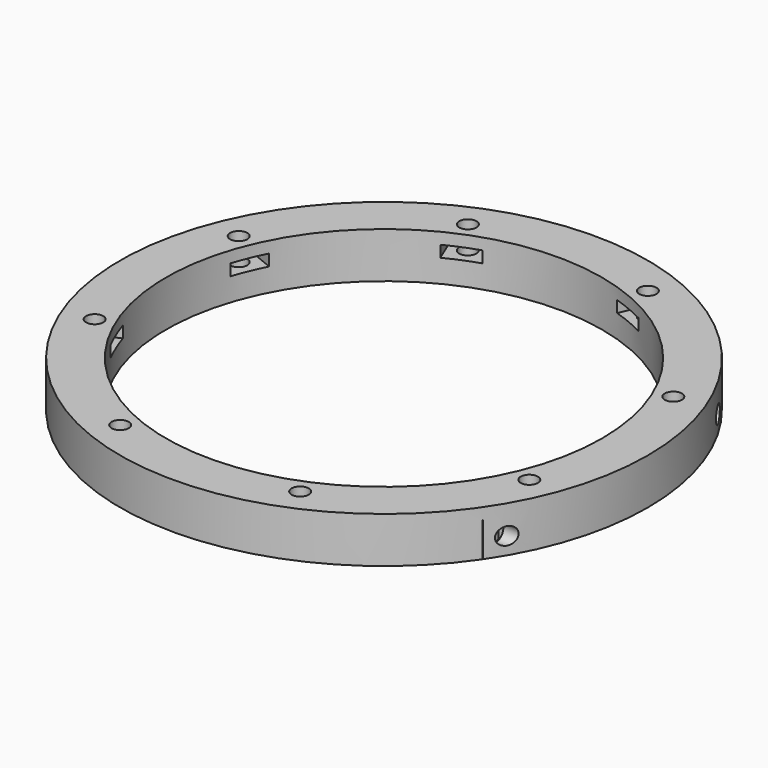
from build123d import *

# Parameters (mm, degrees)
CYLINDER1274_R               = 1.5
CYLINDER1274_DEPTH           = 60
CYLINDER1276_R               = 1.5
CYLINDER1276_DEPTH           = 60
CYLINDER1273_R               = 1.5
CYLINDER1273_DEPTH           = 60
CYLINDER1275_R               = 1.5
CYLINDER1275_DEPTH           = 60
BOX543_W                     = 2
BOX543_H                     = 6
BOX543_DEPTH                 = 6
BOX542_W                     = 2
BOX542_H                     = 6
BOX542_DEPTH                 = 6
BOX541_W                     = 2
BOX541_H                     = 6
BOX541_DEPTH                 = 6
BOX540_W                     = 2
BOX540_H                     = 6
BOX540_DEPTH                 = 6
BOX533_W                     = 8
BOX533_H                     = 6
BOX533_DEPTH                 = 2
BOX539_W                     = 8
BOX539_H                     = 6
BOX539_DEPTH                 = 2
BOX539_PLACEMENT_ANGLE       = 135
BOX534_W                     = 8
BOX534_H                     = 6
BOX534_DEPTH                 = 2
BOX536_W                     = 8
BOX536_H                     = 6
BOX536_DEPTH                 = 2
BOX536_PLACEMENT_ANGLE       = 225
BOX537_W                     = 8
BOX537_H                     = 6
BOX537_DEPTH                 = 2
BOX538_W                     = 8
BOX538_H                     = 6
BOX538_DEPTH                 = 2
BOX538_PLACEMENT_ANGLE       = 45
BOX532_W                     = 8
BOX532_H                     = 6
BOX532_DEPTH                 = 2
BOX535_W                     = 8
BOX535_H                     = 6
BOX535_DEPTH                 = 2
BOX535_PLACEMENT_ANGLE       = 45
COMPOUND921_PLACEMENT_ANGLE  = 22.5
CYLINDER1272_R               = 1.5
CYLINDER1272_DEPTH           = 60
CYLINDER1271_R               = 1.5
CYLINDER1271_DEPTH           = 60
CYLINDER1271_PLACEMENT_ANGLE = 135
CYLINDER1266_R               = 1.5
CYLINDER1266_DEPTH           = 60
CYLINDER1267_R               = 1.5
CYLINDER1267_DEPTH           = 60
CYLINDER1267_PLACEMENT_ANGLE = 225
CYLINDER1270_R               = 1.5
CYLINDER1270_DEPTH           = 60
CYLINDER1268_R               = 1.5
CYLINDER1268_DEPTH           = 60
CYLINDER1268_PLACEMENT_ANGLE = 45
CYLINDER1265_R               = 1.5
CYLINDER1265_DEPTH           = 60
CYLINDER1269_R               = 1.5
CYLINDER1269_DEPTH           = 60
CYLINDER1269_PLACEMENT_ANGLE = 45
COMPOUND919_PLACEMENT_ANGLE  = 22.5
TUBE112_R                    = 46
TUBE112_R_2                  = 38
TUBE112_DEPTH                = 8


with BuildPart() as obj1:
    # Cylinder1274 → Cylinder1274 (new body)
    with BuildSketch(Plane(origin=(32, -23, -5), x_dir=(0, 0, -1), z_dir=(1, 0, 0))):
        Circle(CYLINDER1274_R)
    extrude(amount=CYLINDER1274_DEPTH)


with BuildPart() as obj2:
    # Cylinder1276 → Cylinder1276 (new body)
    with BuildSketch(Plane(origin=(28, 51, 7), x_dir=(0, 0, -1), z_dir=(1, 0, 0))):
        Circle(CYLINDER1276_R)
    extrude(amount=CYLINDER1276_DEPTH)


with BuildPart() as obj3:
    # Cylinder1273 → Cylinder1273 (new body)
    with BuildSketch(Plane(origin=(28, -51, 7), x_dir=(0, 0, -1), z_dir=(1, 0, 0))):
        Circle(CYLINDER1273_R)
    extrude(amount=CYLINDER1273_DEPTH)


with BuildPart() as compound920:
    # Cylinder1275 → Cylinder1275 (new body)
    with BuildSketch(Plane(origin=(32, 23, -5), x_dir=(0, 0, -1), z_dir=(1, 0, 0))):
        Circle(CYLINDER1275_R)
    extrude(amount=CYLINDER1275_DEPTH)

    # Compound920: union obj1, obj2, obj3
    add(obj1.part)
    add(obj2.part)
    add(obj3.part)


with BuildPart() as krychle543:
    # Box543 → Box543 (new body)
    with BuildSketch(Plane(origin=(36, -26, -8), x_dir=(1, 0, 0), z_dir=(0, 0, 1))):
        with Locations((1, 3)):
            Rectangle(BOX543_W, BOX543_H)
    extrude(amount=BOX543_DEPTH)


with BuildPart() as krychle542:
    # Box542 → Box542 (new body)
    with BuildSketch(Plane(origin=(32, 48, 4), x_dir=(1, 0, 0), z_dir=(0, 0, 1))):
        with Locations((1, 3)):
            Rectangle(BOX542_W, BOX542_H)
    extrude(amount=BOX542_DEPTH)


with BuildPart() as krychle541:
    # Box541 → Box541 (new body)
    with BuildSketch(Plane(origin=(32, -54, 4), x_dir=(1, 0, 0), z_dir=(0, 0, 1))):
        with Locations((1, 3)):
            Rectangle(BOX541_W, BOX541_H)
    extrude(amount=BOX541_DEPTH)


with BuildPart() as compound922:
    # Box540 → Box540 (new body)
    with BuildSketch(Plane(origin=(36, 20, -8), x_dir=(1, 0, 0), z_dir=(0, 0, 1))):
        with Locations((1, 3)):
            Rectangle(BOX540_W, BOX540_H)
    extrude(amount=BOX540_DEPTH)

    # Compound922: union Krychle543, Krychle542, Krychle541
    add(krychle543.part)
    add(krychle542.part)
    add(krychle541.part)


with BuildPart() as krychle533:
    # Box533 → Box533 (new body)
    with BuildSketch(Plane(origin=(3, 37, -4), x_dir=(0, 1, 0), z_dir=(0, 0, 1))):
        with Locations((4, 3)):
            Rectangle(BOX533_W, BOX533_H)
    extrude(amount=BOX533_DEPTH)


with BuildPart() as krychle539:
    # Box539 → Box539 (new body)
    with BuildSketch(Plane.XY):
        with Locations((4, 3)):
            Rectangle(BOX539_W, BOX539_H)
    extrude(amount=BOX539_DEPTH)


with BuildPart() as krychle539_1:
    # Box539 placement: moved
    add(krychle539.part.moved(Location((-24.041631, 28.284271, -4))).rotate(Axis((-24.041631, 28.284271, -4), (0, 0, 1)), BOX539_PLACEMENT_ANGLE))


with BuildPart() as krychle534:
    # Box534 → Box534 (new body)
    with BuildSketch(Plane(origin=(-37, 3, -4), x_dir=(-1, 0, 0), z_dir=(0, 0, 1))):
        with Locations((4, 3)):
            Rectangle(BOX534_W, BOX534_H)
    extrude(amount=BOX534_DEPTH)


with BuildPart() as krychle536:
    # Box536 → Box536 (new body)
    with BuildSketch(Plane.XY):
        with Locations((4, 3)):
            Rectangle(BOX536_W, BOX536_H)
    extrude(amount=BOX536_DEPTH)


with BuildPart() as krychle536_1:
    # Box536 placement: moved
    add(krychle536.part.moved(Location((-28.284271, -24.041631, -4))).rotate(Axis((-28.284271, -24.041631, -4), (0, 0, 1)), BOX536_PLACEMENT_ANGLE))


with BuildPart() as krychle537:
    # Box537 → Box537 (new body)
    with BuildSketch(Plane(origin=(-3, -37, -4), x_dir=(0, -1, 0), z_dir=(0, 0, 1))):
        with Locations((4, 3)):
            Rectangle(BOX537_W, BOX537_H)
    extrude(amount=BOX537_DEPTH)


with BuildPart() as krychle538:
    # Box538 → Box538 (new body)
    with BuildSketch(Plane.XY):
        with Locations((4, 3)):
            Rectangle(BOX538_W, BOX538_H)
    extrude(amount=BOX538_DEPTH)


with BuildPart() as krychle538_1:
    # Box538 placement: moved
    add(krychle538.part.moved(Location((24.041631, -28.284271, -4))).rotate(Axis((24.041631, -28.284271, -4), (0, 0, -1)), BOX538_PLACEMENT_ANGLE))


with BuildPart() as krychle532:
    # Box532 → Box532 (new body)
    with BuildSketch(Plane(origin=(37, -3, -4), x_dir=(1, 0, 0), z_dir=(0, 0, 1))):
        with Locations((4, 3)):
            Rectangle(BOX532_W, BOX532_H)
    extrude(amount=BOX532_DEPTH)


with BuildPart() as compound921:
    # Box535 → Box535 (new body)
    with BuildSketch(Plane.XY):
        with Locations((4, 3)):
            Rectangle(BOX535_W, BOX535_H)
    extrude(amount=BOX535_DEPTH)


with BuildPart() as compound921_1:
    # Box535 placement: moved
    add(compound921.part.moved(Location((28.284271, 24.041631, -4))).rotate(Axis((28.284271, 24.041631, -4), (0, 0, 1)), BOX535_PLACEMENT_ANGLE))

    # Compound921: union Krychle533, Krychle539, Krychle534, Krychle536, Krychle537, Krychle538, Krychle532
    add(krychle533.part)
    add(krychle539_1.part)
    add(krychle534.part)
    add(krychle536_1.part)
    add(krychle537.part)
    add(krychle538_1.part)
    add(krychle532.part)


with BuildPart() as compound921_2:
    # Compound921 placement: moved
    add(compound921_1.part.rotate(Axis((0, 0, 0), (0, 0, 1)), COMPOUND921_PLACEMENT_ANGLE))


with BuildPart() as obj4:
    # Cylinder1272 → Cylinder1272 (new body)
    with BuildSketch(Plane(origin=(0, 41, -54), x_dir=(0, 1, 0), z_dir=(0, 0, 1))):
        Circle(CYLINDER1272_R)
    extrude(amount=CYLINDER1272_DEPTH)


with BuildPart() as obj5:
    # Cylinder1271 → Cylinder1271 (new body)
    with BuildSketch(Plane.XY):
        Circle(CYLINDER1271_R)
    extrude(amount=CYLINDER1271_DEPTH)


with BuildPart() as obj5_1:
    # Cylinder1271 placement: moved
    add(obj5.part.moved(Location((-28.991378, 28.991378, -54))).rotate(Axis((-28.991378, 28.991378, -54), (0, 0, 1)), CYLINDER1271_PLACEMENT_ANGLE))


with BuildPart() as obj6:
    # Cylinder1266 → Cylinder1266 (new body)
    with BuildSketch(Plane(origin=(-41, 0, -54), x_dir=(-1, 0, 0), z_dir=(0, 0, 1))):
        Circle(CYLINDER1266_R)
    extrude(amount=CYLINDER1266_DEPTH)


with BuildPart() as obj7:
    # Cylinder1267 → Cylinder1267 (new body)
    with BuildSketch(Plane.XY):
        Circle(CYLINDER1267_R)
    extrude(amount=CYLINDER1267_DEPTH)


with BuildPart() as obj7_1:
    # Cylinder1267 placement: moved
    add(obj7.part.moved(Location((-28.991378, -28.991378, -54))).rotate(Axis((-28.991378, -28.991378, -54), (0, 0, 1)), CYLINDER1267_PLACEMENT_ANGLE))


with BuildPart() as obj8:
    # Cylinder1270 → Cylinder1270 (new body)
    with BuildSketch(Plane(origin=(0, -41, -54), x_dir=(0, -1, 0), z_dir=(0, 0, 1))):
        Circle(CYLINDER1270_R)
    extrude(amount=CYLINDER1270_DEPTH)


with BuildPart() as obj9:
    # Cylinder1268 → Cylinder1268 (new body)
    with BuildSketch(Plane.XY):
        Circle(CYLINDER1268_R)
    extrude(amount=CYLINDER1268_DEPTH)


with BuildPart() as obj9_1:
    # Cylinder1268 placement: moved
    add(obj9.part.moved(Location((28.991378, -28.991378, -54))).rotate(Axis((28.991378, -28.991378, -54), (0, 0, -1)), CYLINDER1268_PLACEMENT_ANGLE))


with BuildPart() as obj10:
    # Cylinder1265 → Cylinder1265 (new body)
    with BuildSketch(Plane(origin=(41, 0, -54), x_dir=(1, 0, 0), z_dir=(0, 0, 1))):
        Circle(CYLINDER1265_R)
    extrude(amount=CYLINDER1265_DEPTH)


with BuildPart() as compound919:
    # Cylinder1269 → Cylinder1269 (new body)
    with BuildSketch(Plane.XY):
        Circle(CYLINDER1269_R)
    extrude(amount=CYLINDER1269_DEPTH)


with BuildPart() as compound919_1:
    # Cylinder1269 placement: moved
    add(compound919.part.moved(Location((28.991378, 28.991378, -54))).rotate(Axis((28.991378, 28.991378, -54), (0, 0, 1)), CYLINDER1269_PLACEMENT_ANGLE))

    # Compound919: union obj4, obj5, obj6, obj7, obj8, obj9, obj10
    add(obj4.part)
    add(obj5_1.part)
    add(obj6.part)
    add(obj7_1.part)
    add(obj8.part)
    add(obj9_1.part)
    add(obj10.part)


with BuildPart() as compound919_2:
    # Compound919 placement: moved
    add(compound919_1.part.rotate(Axis((0, 0, 0), (0, 0, 1)), COMPOUND919_PLACEMENT_ANGLE))


with BuildPart() as cut464:
    # Tube112 → Tube112 (new body)
    with BuildSketch(Plane.XY.offset(-8)):
        Circle(TUBE112_R)
        Circle(TUBE112_R_2, mode=Mode.SUBTRACT)
    extrude(amount=TUBE112_DEPTH)

    # Cut461: cut Compound919
    add(compound919_2.part, mode=Mode.SUBTRACT)

    # Cut462: cut Compound921
    add(compound921_2.part, mode=Mode.SUBTRACT)

    # Cut463: cut Compound922
    add(compound922.part, mode=Mode.SUBTRACT)

    # Cut464: cut Compound920
    add(compound920.part, mode=Mode.SUBTRACT)


solid = cut464.part
